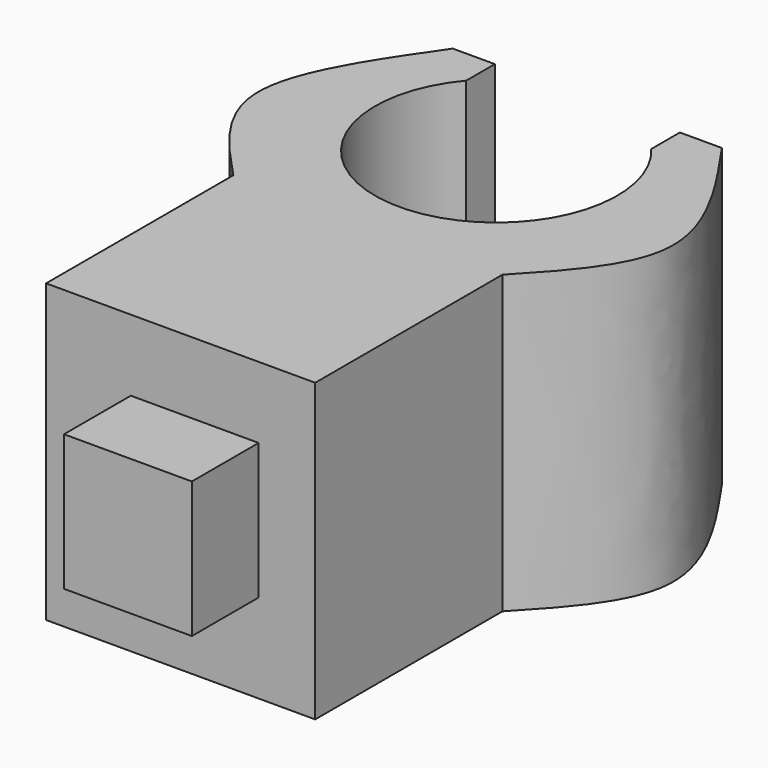
from build123d import *

# Parameters (mm, degrees)
F1_DEPTH = 25.4
F3_W     = 10.9566785395
F3_H     = 11.6627290845
F4_DEPTH = 7.1539785713


with BuildPart() as f1:
    # F0 (on Top) → F1 (new body)
    with BuildSketch(Plane.XY):
        with BuildLine():
            Line((-42.3919206649, 8.6023595556), (-42.3919206649, -11.4512224138))
            Line((-42.3919206649, -11.4512224138), (-19.3287206649, -11.4512224138))
            Line((-19.3287206649, -11.4512224138), (-19.3287206649, 8.6023595556))
            add(Edge.make_bspline(
                [(-19.3287206649, 8.6023595556), (-16.323673708, 11.7888919971), (-9.9481352571, 18.5494707236), (-16.0846098572, 27.4246591557), (-19.3287206649, 32.1166146935)],
                knots=[0, 0, 0, 0, 0.4713400446, 1, 1, 1, 1], degree=3))
            Line((-19.3287206649, 32.1166146935), (-22.9309096968, 32.1166146935))
            Line((-22.9309096968, 32.1166146935), (-22.9309096968, 29.055005683))
            ThreePointArc((-22.9309096968, 29.055005683), (-30.8603206649, 11.9618341392), (-38.7897316331, 29.055005683))
            Line((-38.7897316331, 29.055005683), (-38.7897316331, 32.1166146935))
            Line((-38.7897316331, 32.1166146935), (-42.3919206649, 32.1166146935))
            add(Edge.make_bspline(
                [(-42.3919206649, 8.6023595556), (-45.3969676218, 11.7888919971), (-51.7725060727, 18.5494707236), (-45.6360314726, 27.4246591557), (-42.3919206649, 32.1166146935)],
                knots=[0, 0, 0, 0, 0.4713400446, 1, 1, 1, 1], degree=3))
        make_face()
    extrude(amount=F1_DEPTH)

    # F3 (on face) → F4 (join)
    with BuildSketch(Plane.XZ.offset(11.4512224138)):
        with Locations((-29.654065147, 13.45269382)):
            Rectangle(F3_W, F3_H)
    extrude(amount=F4_DEPTH)


solid = f1.part
